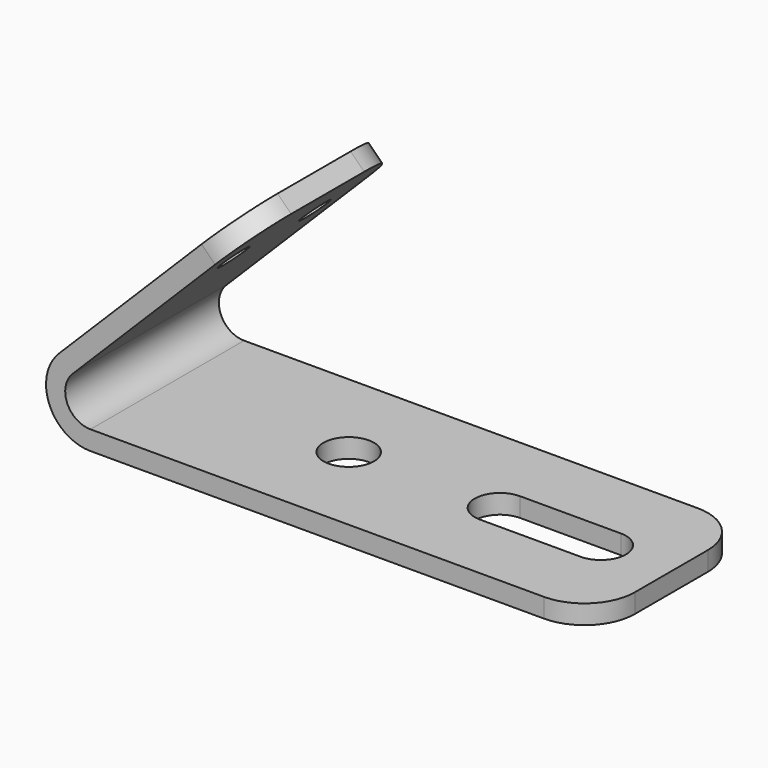
from build123d import *

# Parameters (mm, degrees)
F1_DEPTH = 483.87
F2_R     = 63.5
F3_DEPTH = 83.82
F4_R     = 38.1
F5_DEPTH = 101.6
F6_R     = 127


with BuildPart() as f1:
    # F0 (on Front) → F1 (new body)
    with BuildSketch(Plane.XZ):
        with BuildLine():
            ThreePointArc((-834.882314, 190.786254), (-859.108837, 68.9913), (-755.85606, 0))
            Line((-755.85606, 0), (514.14394, 0))
            Line((514.14394, 0), (514.14394, 48.26))
            Line((514.14394, 48.26), (-755.85606, 48.26))
            ThreePointArc((-755.85606, 48.26), (-814.52241, 87.459602), (-800.757341, 156.661281))
            Line((-800.757341, 156.661281), (-351.744535, 605.674087))
            Line((-351.744535, 605.674087), (-385.869508, 639.79906))
            Line((-385.869508, 639.79906), (-834.882314, 190.786254))
        make_face()
    extrude(amount=-F1_DEPTH)

    # F2 (on face) → F3 (cut)
    with BuildSketch(Plane.XY.offset(48.26)):
        with BuildLine():
            Line((336.34394, 305.435), (82.34394, 305.435))
            ThreePointArc((82.34394, 305.435), (18.84394, 241.935), (82.34394, 178.435))
            Line((82.34394, 178.435), (336.34394, 178.435))
            ThreePointArc((336.34394, 178.435), (399.84394, 241.935), (336.34394, 305.435))
        make_face()
        with Locations((-298.65606, 241.935)):
            Circle(F2_R)
    extrude(amount=-F3_DEPTH, mode=Mode.SUBTRACT)

    # F4 (on face) → F5 (cut)
    with BuildSketch(Plane(origin=(-512.834284, 0, 512.834284), x_dir=(0.707107, 0, 0.707107), z_dir=(-0.707107, 0, 0.707107))):
        with Locations((-10.944692, 369.57)):
            Circle(F4_R)
        with Locations((-10.944692, 114.3)):
            Circle(F4_R)
    extrude(amount=-F5_DEPTH, mode=Mode.SUBTRACT)

    # F6
    f6_edges = [f1.edges().sort_by_distance(p)[0] for p in [
        (-368.807021, 483.87, 622.736573),
        (-368.807021, 0, 622.736573),
        (514.14394, 483.87, 24.13),
        (514.14394, 0, 24.13),
    ]]
    fillet(f6_edges, radius=F6_R)


solid = f1.part
